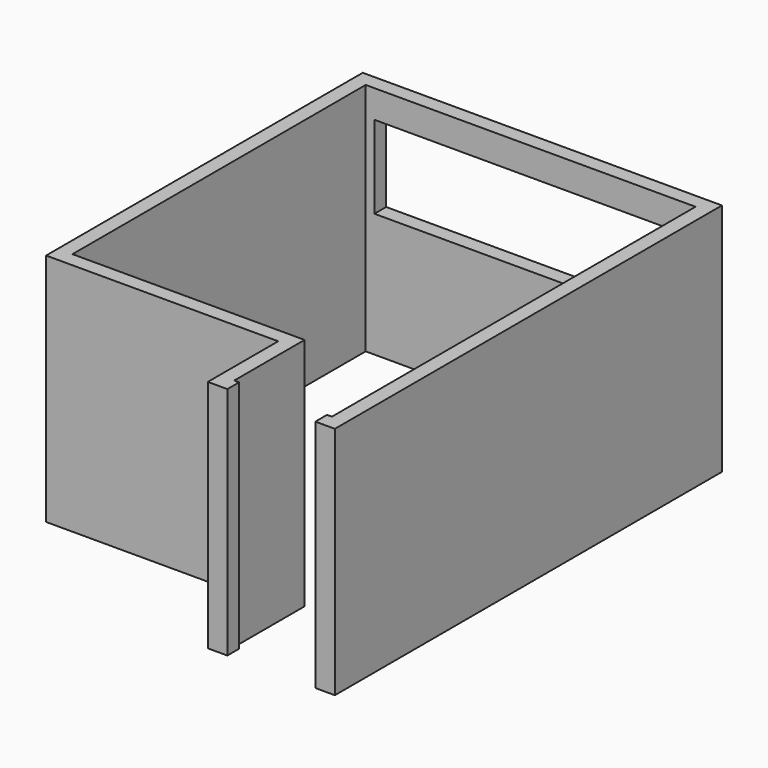
from build123d import *

# Parameters (mm, degrees)
F1_DEPTH = 2438.4
F2_W     = 914.4
F2_H     = 4309.368201
F3_DEPTH = 406.4
F4_W     = 3246.987104
F4_H     = 860.12888
F5_DEPTH = 482.6


with BuildPart() as f1:
    # F0 (on Top) → F1 (new body)
    with BuildSketch(Plane.XY):
        Polygon((-1866.9, -1600.2), (546.1, -1600.2), (546.1, -2514.6), (1866.9, -2514.6), (1866.9, 2514.6), (-1866.9, 2514.6), align=None)
        Polygon((1714.5, 2362.2), (1714.5, -2362.2), (698.5, -2362.2), (698.5, -1447.8), (-1714.5, -1447.8), (-1714.5, 2362.2), align=None, mode=Mode.SUBTRACT)
    extrude(amount=F1_DEPTH)

    # F2 (on face) → F3 (cut)
    with BuildSketch(Plane.XZ.offset(2514.6)):
        with Locations((1206.5, 1377.028703)):
            Rectangle(F2_W, F2_H)
    extrude(amount=-F3_DEPTH, mode=Mode.SUBTRACT)

    # F4 (on face) → F5 (cut)
    with BuildSketch(Plane(origin=(0, 2514.6, 0), x_dir=(-1, 0, 0), z_dir=(0, 1, 0))):
        with Locations((0, 1719.149828)):
            Rectangle(F4_W, F4_H)
    extrude(amount=-F5_DEPTH, mode=Mode.SUBTRACT)


solid = f1.part
